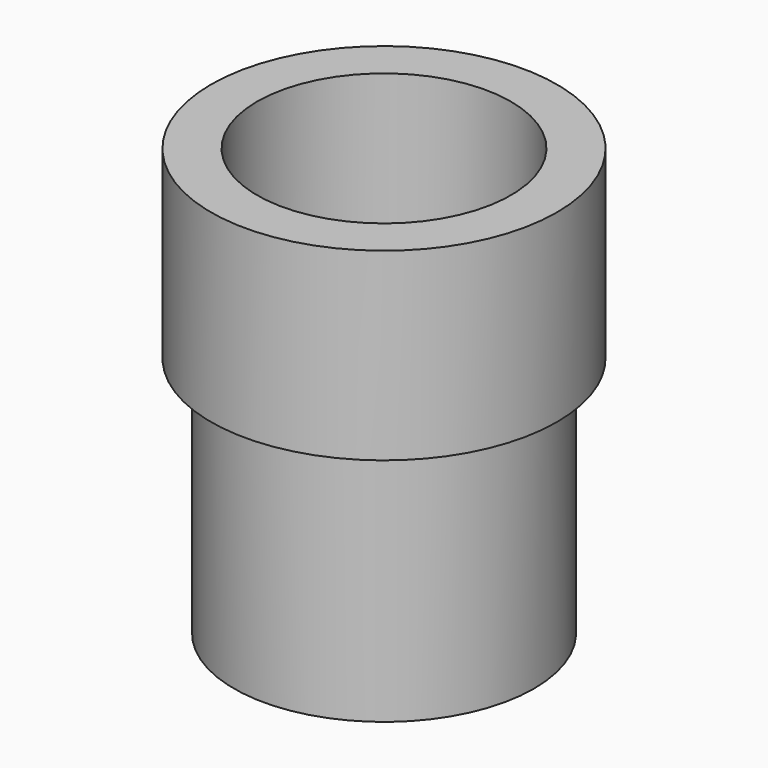
from build123d import *

# Parameters (mm, degrees)
F0_W = 2
F0_H = 21


with BuildPart() as f2:
    # F0 (on Front) → F2 (revolve)
    with BuildSketch(Plane.XZ):
        Polygon((-25.972713, 17.201909), (-23.972713, 17.201909), (-21.972713, 17.201909), (-21.972713, 33.201909), (-25.972713, 33.201909), align=None)
        with Locations((-22.972713, 6.701909)):
            Rectangle(F0_W, F0_H)
    revolve(axis=Axis((-10.972713, 0, 12.957039), (0, 0, -1)))


solid = f2.part
